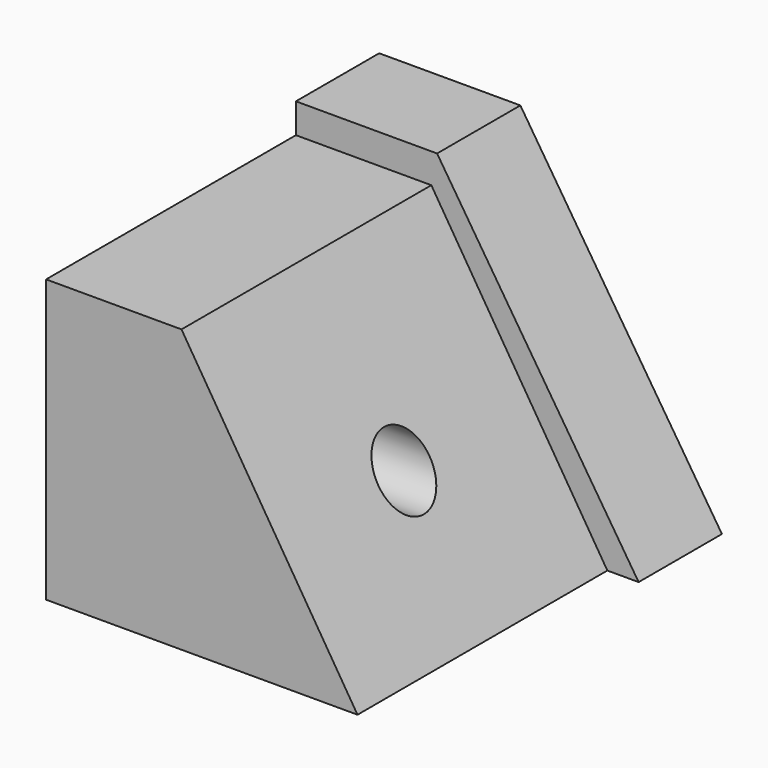
from build123d import *

# Parameters (mm, degrees)
F1_DEPTH = 76.2
F3_DEPTH = 25.4
F4_R     = 7.797698
F5_DEPTH = 127


with BuildPart() as f1:
    # F0 (on Front) → F1 (new body)
    with BuildSketch(Plane.XZ):
        Polygon((-50.381906, 0), (0, 0), (25.614025, 0), (-17.3402, 68.811595), (-50.381906, 68.811595), align=None)
    extrude(amount=F1_DEPTH)

    # F2 (on Front) → F3 (join)
    with BuildSketch(Plane.XZ):
        Polygon((-50.381906, 68.811595), (-50.381906, 0), (33.250909, 0), (-15.932729, 76.084539), (-50.381906, 76.084539), align=None)
    extrude(amount=-F3_DEPTH)

    # F4 (on face) → F5 (cut)
    with BuildSketch(Plane(origin=(-50.381906, 0, 0), x_dir=(0, -1, 0), z_dir=(-1, 0, 0))):
        with Locations((38.1, 30.711595)):
            Circle(F4_R)
    extrude(amount=-F5_DEPTH, mode=Mode.SUBTRACT)


solid = f1.part
